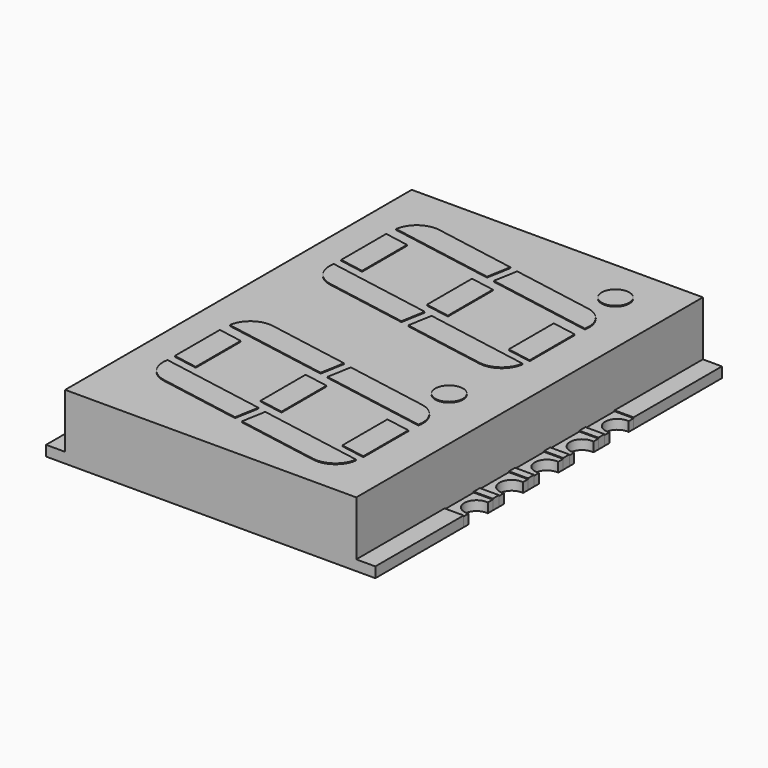
from build123d import *

# Parameters (mm, degrees)
CYLINDER_R             = 0.7
CYLINDER_DEPTH         = 0.55
BOX012_W               = 1.1
BOX012_H               = 2.1
BOX012_DEPTH           = 0.55
CYLINDER001_R          = 0.7
CYLINDER001_DEPTH      = 0.55
BOX013_W               = 1.1
BOX013_H               = 2.1
BOX013_DEPTH           = 0.55
CYLINDER002_R          = 0.7
CYLINDER002_DEPTH      = 0.55
BOX014_W               = 1.1
BOX014_H               = 2.1
BOX014_DEPTH           = 0.55
CYLINDER003_R          = 0.7
CYLINDER003_DEPTH      = 0.55
BOX015_W               = 1.1
BOX015_H               = 2.1
BOX015_DEPTH           = 0.55
CYLINDER004_R          = 0.7
CYLINDER004_DEPTH      = 0.55
BOX016_W               = 1.1
BOX016_H               = 2.1
BOX016_DEPTH           = 0.55
CYLINDER005_R          = 0.7
CYLINDER005_DEPTH      = 0.55
BOX017_W               = 1.1
BOX017_H               = 2.1
BOX017_DEPTH           = 0.55
CUT027_PLACEMENT_ANGLE = 180
CYLINDER006_R          = 0.7
CYLINDER006_DEPTH      = 0.55
BOX018_W               = 1.1
BOX018_H               = 2.1
BOX018_DEPTH           = 0.55
CUT028_PLACEMENT_ANGLE = 180
CYLINDER007_R          = 0.7
CYLINDER007_DEPTH      = 0.55
BOX019_W               = 1.1
BOX019_H               = 2.1
BOX019_DEPTH           = 0.55
CUT029_PLACEMENT_ANGLE = 180
CYLINDER008_R          = 0.7
CYLINDER008_DEPTH      = 0.55
BOX020_W               = 1.1
BOX020_H               = 2.1
BOX020_DEPTH           = 0.55
CUT030_PLACEMENT_ANGLE = 180
CYLINDER009_R          = 0.7
CYLINDER009_DEPTH      = 0.55
BOX021_W               = 1.1
BOX021_H               = 2.1
BOX021_DEPTH           = 0.55
CUT031_PLACEMENT_ANGLE = 180
BOX010_W               = 1.1
BOX010_H               = 2.1
BOX010_DEPTH           = 1
BOX011_W               = 1.1
BOX011_H               = 2.1
BOX011_DEPTH           = 1
BOX009_W               = 1.1
BOX009_H               = 2.1
BOX009_DEPTH           = 1
BOX008_W               = 1.1
BOX008_H               = 2.1
BOX008_DEPTH           = 1
BOX007_W               = 1.1
BOX007_H               = 2.1
BOX007_DEPTH           = 1
BOX006_W               = 1.1
BOX006_H               = 2.1
BOX006_DEPTH           = 1
BOX005_W               = 1.1
BOX005_H               = 2.1
BOX005_DEPTH           = 1
BOX004_W               = 1.1
BOX004_H               = 2.1
BOX004_DEPTH           = 1
BOX003_W               = 1.1
BOX003_H               = 2.1
BOX003_DEPTH           = 1
BOX002_W               = 1.1
BOX002_H               = 2.1
BOX002_DEPTH           = 1
BOX001_W               = 2
BOX001_H               = 27
BOX001_DEPTH           = 4
BOX_W                  = 2
BOX_H                  = 27
BOX_DEPTH              = 4
PAD_DEPTH              = 3.75
BOX034_W               = 3.5
BOX034_H               = 1
BOX034_DEPTH           = 2
BOX034_PLACEMENT_ANGLE = -10
BOX033_W               = 3.5
BOX033_H               = 1
BOX033_DEPTH           = 2
BOX033_PLACEMENT_ANGLE = -10
BOX032_W               = 1.4
BOX032_H               = 3.5
BOX032_DEPTH           = 2
BOX024_W               = 6.2
BOX024_H               = 1.4
BOX024_DEPTH           = 2
BOX024_PLACEMENT_ANGLE = -10
FILLET001_R            = 1.35
BOX023_W               = 6.2
BOX023_H               = 1.4
BOX023_DEPTH           = 2
BOX023_PLACEMENT_ANGLE = -10
FILLET002_R            = 1.35
BOX025_W               = 6.2
BOX025_H               = 1.4
BOX025_DEPTH           = 2
BOX025_PLACEMENT_ANGLE = -10
FILLET003_R            = 1.35
BOX022_W               = 6.2
BOX022_H               = 1.4
BOX022_DEPTH           = 2
BOX022_PLACEMENT_ANGLE = -10
FILLET_R               = 1.35
BOX031_W               = 3.5
BOX031_H               = 1
BOX031_DEPTH           = 2
BOX031_PLACEMENT_ANGLE = -10
BOX030_W               = 3.5
BOX030_H               = 1
BOX030_DEPTH           = 2
BOX030_PLACEMENT_ANGLE = -10
BOX029_W               = 1.4
BOX029_H               = 3.5
BOX029_DEPTH           = 2
BOX028_W               = 3.5
BOX028_H               = 1
BOX028_DEPTH           = 2
BOX028_PLACEMENT_ANGLE = -10
BOX027_W               = 3.5
BOX027_H               = 1
BOX027_DEPTH           = 2
BOX027_PLACEMENT_ANGLE = -10
BOX026_W               = 1.4
BOX026_H               = 3.5
BOX026_DEPTH           = 2
CYLINDER010_R          = 0.8
CYLINDER010_DEPTH      = 2
BOX047_W               = 3.5
BOX047_H               = 1
BOX047_DEPTH           = 2
BOX047_PLACEMENT_ANGLE = -10
BOX046_W               = 3.5
BOX046_H               = 1
BOX046_DEPTH           = 2
BOX046_PLACEMENT_ANGLE = -10
BOX045_W               = 1.4
BOX045_H               = 3.5
BOX045_DEPTH           = 2
BOX037_W               = 6.2
BOX037_H               = 1.4
BOX037_DEPTH           = 2
BOX037_PLACEMENT_ANGLE = -10
FILLET005_R            = 1.35
BOX036_W               = 6.2
BOX036_H               = 1.4
BOX036_DEPTH           = 2
BOX036_PLACEMENT_ANGLE = -10
FILLET006_R            = 1.35
BOX038_W               = 6.2
BOX038_H               = 1.4
BOX038_DEPTH           = 2
BOX038_PLACEMENT_ANGLE = -10
FILLET007_R            = 1.35
BOX035_W               = 6.2
BOX035_H               = 1.4
BOX035_DEPTH           = 2
BOX035_PLACEMENT_ANGLE = -10
FILLET004_R            = 1.35
BOX044_W               = 3.5
BOX044_H               = 1
BOX044_DEPTH           = 2
BOX044_PLACEMENT_ANGLE = -10
BOX043_W               = 3.5
BOX043_H               = 1
BOX043_DEPTH           = 2
BOX043_PLACEMENT_ANGLE = -10
BOX042_W               = 1.4
BOX042_H               = 3.5
BOX042_DEPTH           = 2
BOX041_W               = 3.5
BOX041_H               = 1
BOX041_DEPTH           = 2
BOX041_PLACEMENT_ANGLE = -10
BOX040_W               = 3.5
BOX040_H               = 1
BOX040_DEPTH           = 2
BOX040_PLACEMENT_ANGLE = -10
BOX039_W               = 1.4
BOX039_H               = 3.5
BOX039_DEPTH           = 2
CYLINDER011_R          = 0.8
CYLINDER011_DEPTH      = 2


with BuildPart() as cylinder:
    # Cylinder → Cylinder (new body)
    with BuildSketch(Plane(origin=(9.4, 0, 0), x_dir=(1, 0, 0), z_dir=(0, 0, 1))):
        Circle(CYLINDER_R)
    extrude(amount=CYLINDER_DEPTH)


with BuildPart() as cut012:
    # Box012 → Box012 (new body)
    with BuildSketch(Plane(origin=(8.4, -1.05, 0), x_dir=(1, 0, 0), z_dir=(0, 0, 1))):
        with Locations((0.55, 1.05)):
            Rectangle(BOX012_W, BOX012_H)
    extrude(amount=BOX012_DEPTH)

    # Cut012: cut Cylinder
    add(cylinder.part, mode=Mode.SUBTRACT)


with BuildPart() as cylinder001:
    # Cylinder001 → Cylinder001 (new body)
    with BuildSketch(Plane(origin=(9.4, 0, 0), x_dir=(1, 0, 0), z_dir=(0, 0, 1))):
        Circle(CYLINDER001_R)
    extrude(amount=CYLINDER001_DEPTH)


with BuildPart() as cut023:
    # Box013 → Box013 (new body)
    with BuildSketch(Plane(origin=(8.4, -1.05, 0), x_dir=(1, 0, 0), z_dir=(0, 0, 1))):
        with Locations((0.55, 1.05)):
            Rectangle(BOX013_W, BOX013_H)
    extrude(amount=BOX013_DEPTH)

    # Cut023: cut Cylinder001
    add(cylinder001.part, mode=Mode.SUBTRACT)


with BuildPart() as cut023_1:
    # Cut023 placement: moved
    add(cut023.part.moved(Location((0, 2.54, 0))))


with BuildPart() as cylinder002:
    # Cylinder002 → Cylinder002 (new body)
    with BuildSketch(Plane(origin=(9.4, 0, 0), x_dir=(1, 0, 0), z_dir=(0, 0, 1))):
        Circle(CYLINDER002_R)
    extrude(amount=CYLINDER002_DEPTH)


with BuildPart() as cut024:
    # Box014 → Box014 (new body)
    with BuildSketch(Plane(origin=(8.4, -1.05, 0), x_dir=(1, 0, 0), z_dir=(0, 0, 1))):
        with Locations((0.55, 1.05)):
            Rectangle(BOX014_W, BOX014_H)
    extrude(amount=BOX014_DEPTH)

    # Cut024: cut Cylinder002
    add(cylinder002.part, mode=Mode.SUBTRACT)


with BuildPart() as cut024_1:
    # Cut024 placement: moved
    add(cut024.part.moved(Location((0, 5.08, 0))))


with BuildPart() as cylinder003:
    # Cylinder003 → Cylinder003 (new body)
    with BuildSketch(Plane(origin=(9.4, 0, 0), x_dir=(1, 0, 0), z_dir=(0, 0, 1))):
        Circle(CYLINDER003_R)
    extrude(amount=CYLINDER003_DEPTH)


with BuildPart() as cut025:
    # Box015 → Box015 (new body)
    with BuildSketch(Plane(origin=(8.4, -1.05, 0), x_dir=(1, 0, 0), z_dir=(0, 0, 1))):
        with Locations((0.55, 1.05)):
            Rectangle(BOX015_W, BOX015_H)
    extrude(amount=BOX015_DEPTH)

    # Cut025: cut Cylinder003
    add(cylinder003.part, mode=Mode.SUBTRACT)


with BuildPart() as cut025_1:
    # Cut025 placement: moved
    add(cut025.part.moved(Location((0, -2.54, 0))))


with BuildPart() as cylinder004:
    # Cylinder004 → Cylinder004 (new body)
    with BuildSketch(Plane(origin=(9.4, 0, 0), x_dir=(1, 0, 0), z_dir=(0, 0, 1))):
        Circle(CYLINDER004_R)
    extrude(amount=CYLINDER004_DEPTH)


with BuildPart() as cut026:
    # Box016 → Box016 (new body)
    with BuildSketch(Plane(origin=(8.4, -1.05, 0), x_dir=(1, 0, 0), z_dir=(0, 0, 1))):
        with Locations((0.55, 1.05)):
            Rectangle(BOX016_W, BOX016_H)
    extrude(amount=BOX016_DEPTH)

    # Cut026: cut Cylinder004
    add(cylinder004.part, mode=Mode.SUBTRACT)


with BuildPart() as cut026_1:
    # Cut026 placement: moved
    add(cut026.part.moved(Location((0, -5.08, 0))))


with BuildPart() as cylinder005:
    # Cylinder005 → Cylinder005 (new body)
    with BuildSketch(Plane(origin=(9.4, 0, 0), x_dir=(1, 0, 0), z_dir=(0, 0, 1))):
        Circle(CYLINDER005_R)
    extrude(amount=CYLINDER005_DEPTH)


with BuildPart() as cut027:
    # Box017 → Box017 (new body)
    with BuildSketch(Plane(origin=(8.4, -1.05, 0), x_dir=(1, 0, 0), z_dir=(0, 0, 1))):
        with Locations((0.55, 1.05)):
            Rectangle(BOX017_W, BOX017_H)
    extrude(amount=BOX017_DEPTH)

    # Cut027: cut Cylinder005
    add(cylinder005.part, mode=Mode.SUBTRACT)


with BuildPart() as cut027_1:
    # Cut027 placement: moved
    add(cut027.part.rotate(Axis((0, 0, 0), (0, 0, 1)), CUT027_PLACEMENT_ANGLE))


with BuildPart() as cylinder006:
    # Cylinder006 → Cylinder006 (new body)
    with BuildSketch(Plane(origin=(9.4, 0, 0), x_dir=(1, 0, 0), z_dir=(0, 0, 1))):
        Circle(CYLINDER006_R)
    extrude(amount=CYLINDER006_DEPTH)


with BuildPart() as cut028:
    # Box018 → Box018 (new body)
    with BuildSketch(Plane(origin=(8.4, -1.05, 0), x_dir=(1, 0, 0), z_dir=(0, 0, 1))):
        with Locations((0.55, 1.05)):
            Rectangle(BOX018_W, BOX018_H)
    extrude(amount=BOX018_DEPTH)

    # Cut028: cut Cylinder006
    add(cylinder006.part, mode=Mode.SUBTRACT)


with BuildPart() as cut028_1:
    # Cut028 placement: moved
    add(cut028.part.moved(Location((0, -2.54, 0))).rotate(Axis((0, -2.54, 0), (0, 0, 1)), CUT028_PLACEMENT_ANGLE))


with BuildPart() as cylinder007:
    # Cylinder007 → Cylinder007 (new body)
    with BuildSketch(Plane(origin=(9.4, 0, 0), x_dir=(1, 0, 0), z_dir=(0, 0, 1))):
        Circle(CYLINDER007_R)
    extrude(amount=CYLINDER007_DEPTH)


with BuildPart() as cut029:
    # Box019 → Box019 (new body)
    with BuildSketch(Plane(origin=(8.4, -1.05, 0), x_dir=(1, 0, 0), z_dir=(0, 0, 1))):
        with Locations((0.55, 1.05)):
            Rectangle(BOX019_W, BOX019_H)
    extrude(amount=BOX019_DEPTH)

    # Cut029: cut Cylinder007
    add(cylinder007.part, mode=Mode.SUBTRACT)


with BuildPart() as cut029_1:
    # Cut029 placement: moved
    add(cut029.part.moved(Location((0, -5.08, 0))).rotate(Axis((0, -5.08, 0), (0, 0, 1)), CUT029_PLACEMENT_ANGLE))


with BuildPart() as cylinder008:
    # Cylinder008 → Cylinder008 (new body)
    with BuildSketch(Plane(origin=(9.4, 0, 0), x_dir=(1, 0, 0), z_dir=(0, 0, 1))):
        Circle(CYLINDER008_R)
    extrude(amount=CYLINDER008_DEPTH)


with BuildPart() as cut030:
    # Box020 → Box020 (new body)
    with BuildSketch(Plane(origin=(8.4, -1.05, 0), x_dir=(1, 0, 0), z_dir=(0, 0, 1))):
        with Locations((0.55, 1.05)):
            Rectangle(BOX020_W, BOX020_H)
    extrude(amount=BOX020_DEPTH)

    # Cut030: cut Cylinder008
    add(cylinder008.part, mode=Mode.SUBTRACT)


with BuildPart() as cut030_1:
    # Cut030 placement: moved
    add(cut030.part.moved(Location((0, 2.54, 0))).rotate(Axis((0, 2.54, 0), (0, 0, 1)), CUT030_PLACEMENT_ANGLE))


with BuildPart() as cylinder009:
    # Cylinder009 → Cylinder009 (new body)
    with BuildSketch(Plane(origin=(9.4, 0, 0), x_dir=(1, 0, 0), z_dir=(0, 0, 1))):
        Circle(CYLINDER009_R)
    extrude(amount=CYLINDER009_DEPTH)


with BuildPart() as cut031:
    # Box021 → Box021 (new body)
    with BuildSketch(Plane(origin=(8.4, -1.05, 0), x_dir=(1, 0, 0), z_dir=(0, 0, 1))):
        with Locations((0.55, 1.05)):
            Rectangle(BOX021_W, BOX021_H)
    extrude(amount=BOX021_DEPTH)

    # Cut031: cut Cylinder009
    add(cylinder009.part, mode=Mode.SUBTRACT)


with BuildPart() as cut031_1:
    # Cut031 placement: moved
    add(cut031.part.moved(Location((0, 5.08, 0))).rotate(Axis((0, 5.08, 0), (0, 0, 1)), CUT031_PLACEMENT_ANGLE))


with BuildPart() as kub010:
    # Box010 → Box010 (new body)
    with BuildSketch(Plane(origin=(-9.5, -3.59, 0.5), x_dir=(1, 0, 0), z_dir=(0, 0, 1))):
        with Locations((0.55, 1.05)):
            Rectangle(BOX010_W, BOX010_H)
    extrude(amount=BOX010_DEPTH)


with BuildPart() as kub011:
    # Box011 → Box011 (new body)
    with BuildSketch(Plane(origin=(-9.5, -6.13, 0.5), x_dir=(1, 0, 0), z_dir=(0, 0, 1))):
        with Locations((0.55, 1.05)):
            Rectangle(BOX011_W, BOX011_H)
    extrude(amount=BOX011_DEPTH)


with BuildPart() as kub009:
    # Box009 → Box009 (new body)
    with BuildSketch(Plane(origin=(-9.5, 4.03, 0.5), x_dir=(1, 0, 0), z_dir=(0, 0, 1))):
        with Locations((0.55, 1.05)):
            Rectangle(BOX009_W, BOX009_H)
    extrude(amount=BOX009_DEPTH)


with BuildPart() as kub008:
    # Box008 → Box008 (new body)
    with BuildSketch(Plane(origin=(-9.5, 1.49, 0.5), x_dir=(1, 0, 0), z_dir=(0, 0, 1))):
        with Locations((0.55, 1.05)):
            Rectangle(BOX008_W, BOX008_H)
    extrude(amount=BOX008_DEPTH)


with BuildPart() as kub007:
    # Box007 → Box007 (new body)
    with BuildSketch(Plane(origin=(-9.5, -1.05, 0.5), x_dir=(1, 0, 0), z_dir=(0, 0, 1))):
        with Locations((0.55, 1.05)):
            Rectangle(BOX007_W, BOX007_H)
    extrude(amount=BOX007_DEPTH)


with BuildPart() as kub006:
    # Box006 → Box006 (new body)
    with BuildSketch(Plane(origin=(8.4, -6.13, 0.5), x_dir=(1, 0, 0), z_dir=(0, 0, 1))):
        with Locations((0.55, 1.05)):
            Rectangle(BOX006_W, BOX006_H)
    extrude(amount=BOX006_DEPTH)


with BuildPart() as kub005:
    # Box005 → Box005 (new body)
    with BuildSketch(Plane(origin=(8.4, -3.59, 0.5), x_dir=(1, 0, 0), z_dir=(0, 0, 1))):
        with Locations((0.55, 1.05)):
            Rectangle(BOX005_W, BOX005_H)
    extrude(amount=BOX005_DEPTH)


with BuildPart() as kub004:
    # Box004 → Box004 (new body)
    with BuildSketch(Plane(origin=(8.4, 4.03, 0.5), x_dir=(1, 0, 0), z_dir=(0, 0, 1))):
        with Locations((0.55, 1.05)):
            Rectangle(BOX004_W, BOX004_H)
    extrude(amount=BOX004_DEPTH)


with BuildPart() as kub003:
    # Box003 → Box003 (new body)
    with BuildSketch(Plane(origin=(8.4, 1.49, 0.5), x_dir=(1, 0, 0), z_dir=(0, 0, 1))):
        with Locations((0.55, 1.05)):
            Rectangle(BOX003_W, BOX003_H)
    extrude(amount=BOX003_DEPTH)


with BuildPart() as kub002:
    # Box002 → Box002 (new body)
    with BuildSketch(Plane(origin=(8.4, -1.05, 0.5), x_dir=(1, 0, 0), z_dir=(0, 0, 1))):
        with Locations((0.55, 1.05)):
            Rectangle(BOX002_W, BOX002_H)
    extrude(amount=BOX002_DEPTH)


with BuildPart() as kub001:
    # Box001 → Box001 (new body)
    with BuildSketch(Plane(origin=(-10.4, -14, 0.6), x_dir=(1, 0, 0), z_dir=(0, 0, 1))):
        with Locations((1, 13.5)):
            Rectangle(BOX001_W, BOX001_H)
    extrude(amount=BOX001_DEPTH)


with BuildPart() as kub:
    # Box → Box (new body)
    with BuildSketch(Plane(origin=(8.4, -14, 0.6), x_dir=(1, 0, 0), z_dir=(0, 0, 1))):
        with Locations((1, 13.5)):
            Rectangle(BOX_W, BOX_H)
    extrude(amount=BOX_DEPTH)


with BuildPart() as cut033:
    # Sketch → Pad (new body)
    with BuildSketch(Plane.XY):
        with BuildLine():
            Line((-9.5, 12.5), (9.5, 12.5))
            Line((9.5, 12.5), (9.5, 6.13))
            ThreePointArc((9.5, 6.13), (8.45, 5.08), (9.5, 4.03))
            Line((9.5, 4.03), (9.5, 3.59))
            ThreePointArc((9.5, 3.59), (8.45, 2.54), (9.5, 1.49))
            Line((9.5, 1.49), (9.5, 1.05))
            ThreePointArc((9.5, 1.05), (8.45, 0), (9.5, -1.05))
            Line((9.5, -1.05), (9.5, -1.49))
            ThreePointArc((9.5, -1.49), (8.45, -2.54), (9.5, -3.59))
            Line((9.5, -3.59), (9.5, -4.03))
            ThreePointArc((9.5, -4.03), (8.45, -5.08), (9.5, -6.13))
            Line((9.5, -6.13), (9.5, -12.5))
            Line((-9.5, -12.5), (9.5, -12.5))
            Line((-9.5, -6.13), (-9.5, -12.5))
            ThreePointArc((-9.5, -6.13), (-8.45, -5.08), (-9.5, -4.03))
            Line((-9.5, -3.59), (-9.5, -4.03))
            ThreePointArc((-9.5, -3.59), (-8.45, -2.54), (-9.5, -1.49))
            Line((-9.5, -1.05), (-9.5, -1.49))
            ThreePointArc((-9.5, -1.05), (-8.45, 0), (-9.5, 1.05))
            Line((-9.5, 1.49), (-9.5, 1.05))
            ThreePointArc((-9.5, 1.49), (-8.45, 2.54), (-9.5, 3.59))
            Line((-9.5, 4.03), (-9.5, 3.59))
            ThreePointArc((-9.5, 4.03), (-8.45, 5.08), (-9.5, 6.13))
            Line((-9.5, 12.5), (-9.5, 6.13))
        make_face()
    extrude(amount=PAD_DEPTH)

    # Cut: cut Kub
    add(kub.part, mode=Mode.SUBTRACT)

    # Cut013: cut Kub001
    add(kub001.part, mode=Mode.SUBTRACT)

    # Cut014: cut Kub002
    add(kub002.part, mode=Mode.SUBTRACT)

    # Cut015: cut Kub003
    add(kub003.part, mode=Mode.SUBTRACT)

    # Cut016: cut Kub004
    add(kub004.part, mode=Mode.SUBTRACT)

    # Cut017: cut Kub005
    add(kub005.part, mode=Mode.SUBTRACT)

    # Cut018: cut Kub006
    add(kub006.part, mode=Mode.SUBTRACT)

    # Cut019: cut Kub007
    add(kub007.part, mode=Mode.SUBTRACT)

    # Cut020: cut Kub008
    add(kub008.part, mode=Mode.SUBTRACT)

    # Cut021: cut Kub009
    add(kub009.part, mode=Mode.SUBTRACT)

    # Cut032: cut Kub011
    add(kub011.part, mode=Mode.SUBTRACT)

    # Cut033: cut Kub010
    add(kub010.part, mode=Mode.SUBTRACT)


with BuildPart() as kub034:
    # Box034 → Box034 (new body)
    with BuildSketch(Plane.XY):
        with Locations((1.75, 0.5)):
            Rectangle(BOX034_W, BOX034_H)
    extrude(amount=BOX034_DEPTH)


with BuildPart() as kub034_1:
    # Box034 placement: moved
    add(kub034.part.moved(Location((10.2, 7.6, 1.8))).rotate(Axis((10.2, 7.6, 1.8), (0, 0, 1)), BOX034_PLACEMENT_ANGLE))


with BuildPart() as kub033:
    # Box033 → Box033 (new body)
    with BuildSketch(Plane.XY):
        with Locations((1.75, 0.5)):
            Rectangle(BOX033_W, BOX033_H)
    extrude(amount=BOX033_DEPTH)


with BuildPart() as kub033_1:
    # Box033 placement: moved
    add(kub033.part.moved(Location((10.2, 3.34, 1.8))).rotate(Axis((10.2, 3.34, 1.8), (0, 0, 1)), BOX033_PLACEMENT_ANGLE))


with BuildPart() as cut039:
    # Box032 → Box032 (new body)
    with BuildSketch(Plane(origin=(12.2, 3.75, 1.8), x_dir=(1, 0, 0), z_dir=(0, 0, 1))):
        with Locations((0.7, 1.75)):
            Rectangle(BOX032_W, BOX032_H)
    extrude(amount=BOX032_DEPTH)

    # Cut038: cut Kub033
    add(kub033_1.part, mode=Mode.SUBTRACT)

    # Cut039: cut Kub034
    add(kub034_1.part, mode=Mode.SUBTRACT)


with BuildPart() as cut039_1:
    # Cut039 placement: moved
    add(cut039.part.moved(Location((-17.75, 2.1, 0))))


with BuildPart() as fillet001:
    # Box024 → Box024 (new body)
    with BuildSketch(Plane.XY):
        with Locations((3.1, 0.7)):
            Rectangle(BOX024_W, BOX024_H)
    extrude(amount=BOX024_DEPTH)


with BuildPart() as fillet001_1:
    # Box024 placement: moved
    add(fillet001.part.moved(Location((0.8, 3, 1.8))).rotate(Axis((0.8, 3, 1.8), (0, 0, 1)), BOX024_PLACEMENT_ANGLE))

    # Fillet001
    fillet001_edges = [fillet001_1.edges().sort_by_distance(p)[0] for p in [
        (6.905808, 1.923381, 2.8),
    ]]
    fillet(fillet001_edges, radius=FILLET001_R)


with BuildPart() as fillet002:
    # Box023 → Box023 (new body)
    with BuildSketch(Plane.XY):
        with Locations((3.1, 0.7)):
            Rectangle(BOX023_W, BOX023_H)
    extrude(amount=BOX023_DEPTH)


with BuildPart() as fillet002_1:
    # Box023 placement: moved
    add(fillet002.part.moved(Location((-5.5, 10, 1.8))).rotate(Axis((-5.5, 10, 1.8), (0, 0, 1)), BOX023_PLACEMENT_ANGLE))

    # Fillet002
    fillet002_edges = [fillet002_1.edges().sort_by_distance(p)[0] for p in [
        (-5.256893, 11.378731, 2.8),
    ]]
    fillet(fillet002_edges, radius=FILLET002_R)


with BuildPart() as fillet003:
    # Box025 → Box025 (new body)
    with BuildSketch(Plane.XY):
        with Locations((3.1, 0.7)):
            Rectangle(BOX025_W, BOX025_H)
    extrude(amount=BOX025_DEPTH)


with BuildPart() as fillet003_1:
    # Box025 placement: moved
    add(fillet003.part.moved(Location((-5.8, 4.2, 1.8))).rotate(Axis((-5.8, 4.2, 1.8), (0, 0, 1)), BOX025_PLACEMENT_ANGLE))

    # Fillet003
    fillet003_edges = [fillet003_1.edges().sort_by_distance(p)[0] for p in [
        (-5.8, 4.2, 2.8),
    ]]
    fillet(fillet003_edges, radius=FILLET003_R)


with BuildPart() as fillet_body:
    # Box022 → Box022 (new body)
    with BuildSketch(Plane.XY):
        with Locations((3.1, 0.7)):
            Rectangle(BOX022_W, BOX022_H)
    extrude(amount=BOX022_DEPTH)


with BuildPart() as fillet_body_1:
    # Box022 placement: moved
    add(fillet_body.part.moved(Location((1.1, 8.8, 1.8))).rotate(Axis((1.1, 8.8, 1.8), (0, 0, 1)), BOX022_PLACEMENT_ANGLE))

    # Fillet
    fillet_edges = [fillet_body_1.edges().sort_by_distance(p)[0] for p in [
        (7.448916, 9.102112, 2.8),
    ]]
    fillet(fillet_edges, radius=FILLET_R)


with BuildPart() as kub031:
    # Box031 → Box031 (new body)
    with BuildSketch(Plane.XY):
        with Locations((1.75, 0.5)):
            Rectangle(BOX031_W, BOX031_H)
    extrude(amount=BOX031_DEPTH)


with BuildPart() as kub031_1:
    # Box031 placement: moved
    add(kub031.part.moved(Location((10.2, 7.6, 1.8))).rotate(Axis((10.2, 7.6, 1.8), (0, 0, 1)), BOX031_PLACEMENT_ANGLE))


with BuildPart() as kub030:
    # Box030 → Box030 (new body)
    with BuildSketch(Plane.XY):
        with Locations((1.75, 0.5)):
            Rectangle(BOX030_W, BOX030_H)
    extrude(amount=BOX030_DEPTH)


with BuildPart() as kub030_1:
    # Box030 placement: moved
    add(kub030.part.moved(Location((10.2, 3.34, 1.8))).rotate(Axis((10.2, 3.34, 1.8), (0, 0, 1)), BOX030_PLACEMENT_ANGLE))


with BuildPart() as cut037:
    # Box029 → Box029 (new body)
    with BuildSketch(Plane(origin=(12.2, 3.75, 1.8), x_dir=(1, 0, 0), z_dir=(0, 0, 1))):
        with Locations((0.7, 1.75)):
            Rectangle(BOX029_W, BOX029_H)
    extrude(amount=BOX029_DEPTH)

    # Cut036: cut Kub030
    add(kub030_1.part, mode=Mode.SUBTRACT)

    # Cut037: cut Kub031
    add(kub031_1.part, mode=Mode.SUBTRACT)


with BuildPart() as cut037_1:
    # Cut037 placement: moved
    add(cut037.part.moved(Location((-12, 1.1, 0))))


with BuildPart() as kub028:
    # Box028 → Box028 (new body)
    with BuildSketch(Plane.XY):
        with Locations((1.75, 0.5)):
            Rectangle(BOX028_W, BOX028_H)
    extrude(amount=BOX028_DEPTH)


with BuildPart() as kub028_1:
    # Box028 placement: moved
    add(kub028.part.moved(Location((10.2, 7.6, 1.8))).rotate(Axis((10.2, 7.6, 1.8), (0, 0, 1)), BOX028_PLACEMENT_ANGLE))


with BuildPart() as kub027:
    # Box027 → Box027 (new body)
    with BuildSketch(Plane.XY):
        with Locations((1.75, 0.5)):
            Rectangle(BOX027_W, BOX027_H)
    extrude(amount=BOX027_DEPTH)


with BuildPart() as kub027_1:
    # Box027 placement: moved
    add(kub027.part.moved(Location((10.2, 3.34, 1.8))).rotate(Axis((10.2, 3.34, 1.8), (0, 0, 1)), BOX027_PLACEMENT_ANGLE))


with BuildPart() as cut035:
    # Box026 → Box026 (new body)
    with BuildSketch(Plane(origin=(12.2, 3.75, 1.8), x_dir=(1, 0, 0), z_dir=(0, 0, 1))):
        with Locations((0.7, 1.75)):
            Rectangle(BOX026_W, BOX026_H)
    extrude(amount=BOX026_DEPTH)

    # Cut034: cut Kub027
    add(kub027_1.part, mode=Mode.SUBTRACT)

    # Cut035: cut Kub028
    add(kub028_1.part, mode=Mode.SUBTRACT)


with BuildPart() as cut035_1:
    # Cut035 placement: moved
    add(cut035.part.moved(Location((-6.4, 0, 0))))


with BuildPart() as digit2:
    # Cylinder010 → Cylinder010 (new body)
    with BuildSketch(Plane(origin=(6.4, 10.95, 1.8), x_dir=(1, 0, 0), z_dir=(0, 0, 1))):
        Circle(CYLINDER010_R)
    extrude(amount=CYLINDER010_DEPTH)

    # Fusion: union Cut039, Fillet001, Fillet002, Fillet003, Fillet body, Cut037, Cut035
    add(cut039_1.part)
    add(fillet001_1.part)
    add(fillet002_1.part)
    add(fillet003_1.part)
    add(fillet_body_1.part)
    add(cut037_1.part)
    add(cut035_1.part)


with BuildPart() as digit2_1:
    # Fusion placement: moved
    add(digit2.part.moved(Location((-1, -1, 0))))


with BuildPart() as kub047:
    # Box047 → Box047 (new body)
    with BuildSketch(Plane.XY):
        with Locations((1.75, 0.5)):
            Rectangle(BOX047_W, BOX047_H)
    extrude(amount=BOX047_DEPTH)


with BuildPart() as kub047_1:
    # Box047 placement: moved
    add(kub047.part.moved(Location((10.2, 7.6, 1.8))).rotate(Axis((10.2, 7.6, 1.8), (0, 0, 1)), BOX047_PLACEMENT_ANGLE))


with BuildPart() as kub046:
    # Box046 → Box046 (new body)
    with BuildSketch(Plane.XY):
        with Locations((1.75, 0.5)):
            Rectangle(BOX046_W, BOX046_H)
    extrude(amount=BOX046_DEPTH)


with BuildPart() as kub046_1:
    # Box046 placement: moved
    add(kub046.part.moved(Location((10.2, 3.34, 1.8))).rotate(Axis((10.2, 3.34, 1.8), (0, 0, 1)), BOX046_PLACEMENT_ANGLE))


with BuildPart() as cut045:
    # Box045 → Box045 (new body)
    with BuildSketch(Plane(origin=(12.2, 3.75, 1.8), x_dir=(1, 0, 0), z_dir=(0, 0, 1))):
        with Locations((0.7, 1.75)):
            Rectangle(BOX045_W, BOX045_H)
    extrude(amount=BOX045_DEPTH)

    # Cut044: cut Kub046
    add(kub046_1.part, mode=Mode.SUBTRACT)

    # Cut045: cut Kub047
    add(kub047_1.part, mode=Mode.SUBTRACT)


with BuildPart() as cut045_1:
    # Cut045 placement: moved
    add(cut045.part.moved(Location((-17.75, 2.1, 0))))


with BuildPart() as fillet005:
    # Box037 → Box037 (new body)
    with BuildSketch(Plane.XY):
        with Locations((3.1, 0.7)):
            Rectangle(BOX037_W, BOX037_H)
    extrude(amount=BOX037_DEPTH)


with BuildPart() as fillet005_1:
    # Box037 placement: moved
    add(fillet005.part.moved(Location((0.8, 3, 1.8))).rotate(Axis((0.8, 3, 1.8), (0, 0, 1)), BOX037_PLACEMENT_ANGLE))

    # Fillet005
    fillet005_edges = [fillet005_1.edges().sort_by_distance(p)[0] for p in [
        (6.905808, 1.923381, 2.8),
    ]]
    fillet(fillet005_edges, radius=FILLET005_R)


with BuildPart() as fillet006:
    # Box036 → Box036 (new body)
    with BuildSketch(Plane.XY):
        with Locations((3.1, 0.7)):
            Rectangle(BOX036_W, BOX036_H)
    extrude(amount=BOX036_DEPTH)


with BuildPart() as fillet006_1:
    # Box036 placement: moved
    add(fillet006.part.moved(Location((-5.5, 10, 1.8))).rotate(Axis((-5.5, 10, 1.8), (0, 0, 1)), BOX036_PLACEMENT_ANGLE))

    # Fillet006
    fillet006_edges = [fillet006_1.edges().sort_by_distance(p)[0] for p in [
        (-5.256893, 11.378731, 2.8),
    ]]
    fillet(fillet006_edges, radius=FILLET006_R)


with BuildPart() as fillet007:
    # Box038 → Box038 (new body)
    with BuildSketch(Plane.XY):
        with Locations((3.1, 0.7)):
            Rectangle(BOX038_W, BOX038_H)
    extrude(amount=BOX038_DEPTH)


with BuildPart() as fillet007_1:
    # Box038 placement: moved
    add(fillet007.part.moved(Location((-5.8, 4.2, 1.8))).rotate(Axis((-5.8, 4.2, 1.8), (0, 0, 1)), BOX038_PLACEMENT_ANGLE))

    # Fillet007
    fillet007_edges = [fillet007_1.edges().sort_by_distance(p)[0] for p in [
        (-5.8, 4.2, 2.8),
    ]]
    fillet(fillet007_edges, radius=FILLET007_R)


with BuildPart() as fillet004:
    # Box035 → Box035 (new body)
    with BuildSketch(Plane.XY):
        with Locations((3.1, 0.7)):
            Rectangle(BOX035_W, BOX035_H)
    extrude(amount=BOX035_DEPTH)


with BuildPart() as fillet004_1:
    # Box035 placement: moved
    add(fillet004.part.moved(Location((1.1, 8.8, 1.8))).rotate(Axis((1.1, 8.8, 1.8), (0, 0, 1)), BOX035_PLACEMENT_ANGLE))

    # Fillet004
    fillet004_edges = [fillet004_1.edges().sort_by_distance(p)[0] for p in [
        (7.448916, 9.102112, 2.8),
    ]]
    fillet(fillet004_edges, radius=FILLET004_R)


with BuildPart() as kub044:
    # Box044 → Box044 (new body)
    with BuildSketch(Plane.XY):
        with Locations((1.75, 0.5)):
            Rectangle(BOX044_W, BOX044_H)
    extrude(amount=BOX044_DEPTH)


with BuildPart() as kub044_1:
    # Box044 placement: moved
    add(kub044.part.moved(Location((10.2, 7.6, 1.8))).rotate(Axis((10.2, 7.6, 1.8), (0, 0, 1)), BOX044_PLACEMENT_ANGLE))


with BuildPart() as kub043:
    # Box043 → Box043 (new body)
    with BuildSketch(Plane.XY):
        with Locations((1.75, 0.5)):
            Rectangle(BOX043_W, BOX043_H)
    extrude(amount=BOX043_DEPTH)


with BuildPart() as kub043_1:
    # Box043 placement: moved
    add(kub043.part.moved(Location((10.2, 3.34, 1.8))).rotate(Axis((10.2, 3.34, 1.8), (0, 0, 1)), BOX043_PLACEMENT_ANGLE))


with BuildPart() as cut043:
    # Box042 → Box042 (new body)
    with BuildSketch(Plane(origin=(12.2, 3.75, 1.8), x_dir=(1, 0, 0), z_dir=(0, 0, 1))):
        with Locations((0.7, 1.75)):
            Rectangle(BOX042_W, BOX042_H)
    extrude(amount=BOX042_DEPTH)

    # Cut042: cut Kub043
    add(kub043_1.part, mode=Mode.SUBTRACT)

    # Cut043: cut Kub044
    add(kub044_1.part, mode=Mode.SUBTRACT)


with BuildPart() as cut043_1:
    # Cut043 placement: moved
    add(cut043.part.moved(Location((-12, 1.1, 0))))


with BuildPart() as kub041:
    # Box041 → Box041 (new body)
    with BuildSketch(Plane.XY):
        with Locations((1.75, 0.5)):
            Rectangle(BOX041_W, BOX041_H)
    extrude(amount=BOX041_DEPTH)


with BuildPart() as kub041_1:
    # Box041 placement: moved
    add(kub041.part.moved(Location((10.2, 7.6, 1.8))).rotate(Axis((10.2, 7.6, 1.8), (0, 0, 1)), BOX041_PLACEMENT_ANGLE))


with BuildPart() as kub040:
    # Box040 → Box040 (new body)
    with BuildSketch(Plane.XY):
        with Locations((1.75, 0.5)):
            Rectangle(BOX040_W, BOX040_H)
    extrude(amount=BOX040_DEPTH)


with BuildPart() as kub040_1:
    # Box040 placement: moved
    add(kub040.part.moved(Location((10.2, 3.34, 1.8))).rotate(Axis((10.2, 3.34, 1.8), (0, 0, 1)), BOX040_PLACEMENT_ANGLE))


with BuildPart() as cut041:
    # Box039 → Box039 (new body)
    with BuildSketch(Plane(origin=(12.2, 3.75, 1.8), x_dir=(1, 0, 0), z_dir=(0, 0, 1))):
        with Locations((0.7, 1.75)):
            Rectangle(BOX039_W, BOX039_H)
    extrude(amount=BOX039_DEPTH)

    # Cut040: cut Kub040
    add(kub040_1.part, mode=Mode.SUBTRACT)

    # Cut041: cut Kub041
    add(kub041_1.part, mode=Mode.SUBTRACT)


with BuildPart() as cut041_1:
    # Cut041 placement: moved
    add(cut041.part.moved(Location((-6.4, 0, 0))))


with BuildPart() as digit003:
    # Cylinder011 → Cylinder011 (new body)
    with BuildSketch(Plane(origin=(6.4, 10.95, 1.8), x_dir=(1, 0, 0), z_dir=(0, 0, 1))):
        Circle(CYLINDER011_R)
    extrude(amount=CYLINDER011_DEPTH)

    # Fusion001: union Cut045, Fillet005, Fillet006, Fillet007, Fillet004, Cut043, Cut041
    add(cut045_1.part)
    add(fillet005_1.part)
    add(fillet006_1.part)
    add(fillet007_1.part)
    add(fillet004_1.part)
    add(cut043_1.part)
    add(cut041_1.part)


with BuildPart() as digit003_1:
    # Fusion001 placement: moved
    add(digit003.part.moved(Location((-1, -13, 0))))


solid = Compound([cut012.part, cut023_1.part, cut024_1.part, cut025_1.part, cut026_1.part, cut027_1.part, cut028_1.part, cut029_1.part, cut030_1.part, cut031_1.part, cut033.part, digit2_1.part, digit003_1.part])
